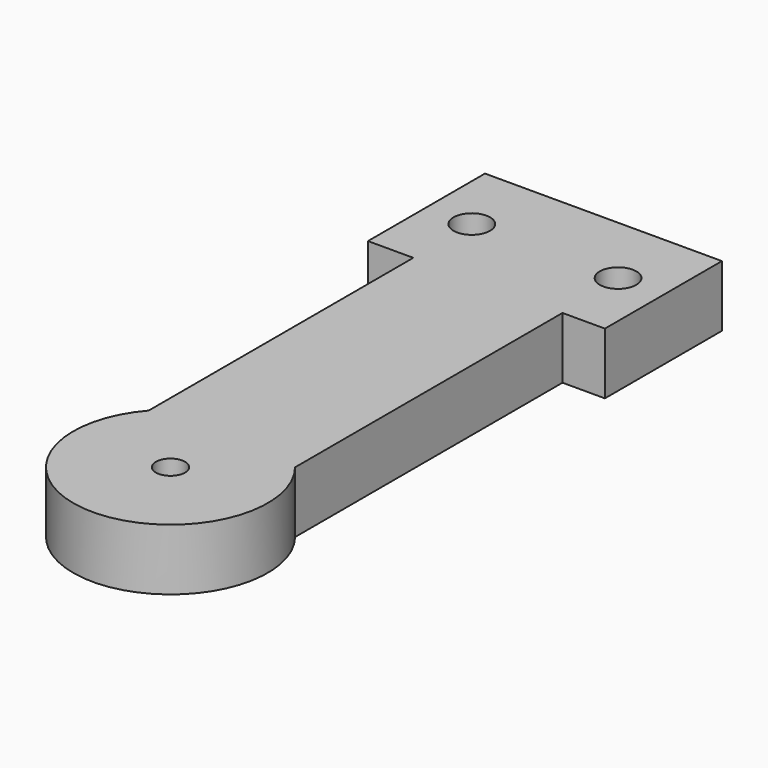
from build123d import *

# Parameters (mm, degrees)
CYLINDER004_R     = 1.25
CYLINDER004_DEPTH = 10
CYLINDER005_R     = 1.25
CYLINDER005_DEPTH = 10
CYLINDER013_R     = 1
CYLINDER013_DEPTH = 4.2
CYLINDER002_R     = 2.37
CYLINDER002_DEPTH = 2.36
BOX003_W          = 10.2
BOX003_H          = 28
BOX003_DEPTH      = 4.2
CYLINDER006_R     = 6.65
CYLINDER006_DEPTH = 4.2
BOX005_W          = 16.200001
BOX005_H          = 10
BOX005_DEPTH      = 4.2


with BuildPart() as cylinder004:
    # Cylinder004 → Cylinder004 (new body)
    with BuildSketch(Plane(origin=(5, 32, -3), x_dir=(1, 0, 0), z_dir=(0, 0, 1))):
        Circle(CYLINDER004_R)
    extrude(amount=CYLINDER004_DEPTH)


with BuildPart() as cylinder005:
    # Cylinder005 → Cylinder005 (new body)
    with BuildSketch(Plane(origin=(-5, 32, -3), x_dir=(1, 0, 0), z_dir=(0, 0, 1))):
        Circle(CYLINDER005_R)
    extrude(amount=CYLINDER005_DEPTH)


with BuildPart() as cylinder013:
    # Cylinder013 → Cylinder013 (new body)
    with BuildSketch(Plane.XY):
        Circle(CYLINDER013_R)
    extrude(amount=CYLINDER013_DEPTH)


with BuildPart() as fusion005002:
    # Cylinder002 → Cylinder002 (new body)
    with BuildSketch(Plane.XY):
        Circle(CYLINDER002_R)
    extrude(amount=CYLINDER002_DEPTH)

    # Fusion005002: union Cylinder004, Cylinder005, Cylinder013
    add(cylinder004.part)
    add(cylinder005.part)
    add(cylinder013.part)


with BuildPart() as box003:
    # Box003 → Box003 (new body)
    with BuildSketch(Plane(origin=(-5, 4, 0), x_dir=(1, 0, 0), z_dir=(0, 0, 1))):
        with Locations((5.1, 14)):
            Rectangle(BOX003_W, BOX003_H)
    extrude(amount=BOX003_DEPTH)


with BuildPart() as cylinder006:
    # Cylinder006 → Cylinder006 (new body)
    with BuildSketch(Plane.XY):
        Circle(CYLINDER006_R)
    extrude(amount=CYLINDER006_DEPTH)


with BuildPart() as horn:
    # Box005 → Box005 (new body)
    with BuildSketch(Plane(origin=(-8.1, 27, 0), x_dir=(1, 0, 0), z_dir=(0, 0, 1))):
        with Locations((8.100001, 5)):
            Rectangle(BOX005_W, BOX005_H)
    extrude(amount=BOX005_DEPTH)

    # Fusion003: union Box003, Cylinder006
    add(box003.part)
    add(cylinder006.part)

    # Cut002002003: cut Fusion005002
    add(fusion005002.part, mode=Mode.SUBTRACT)


solid = horn.part
